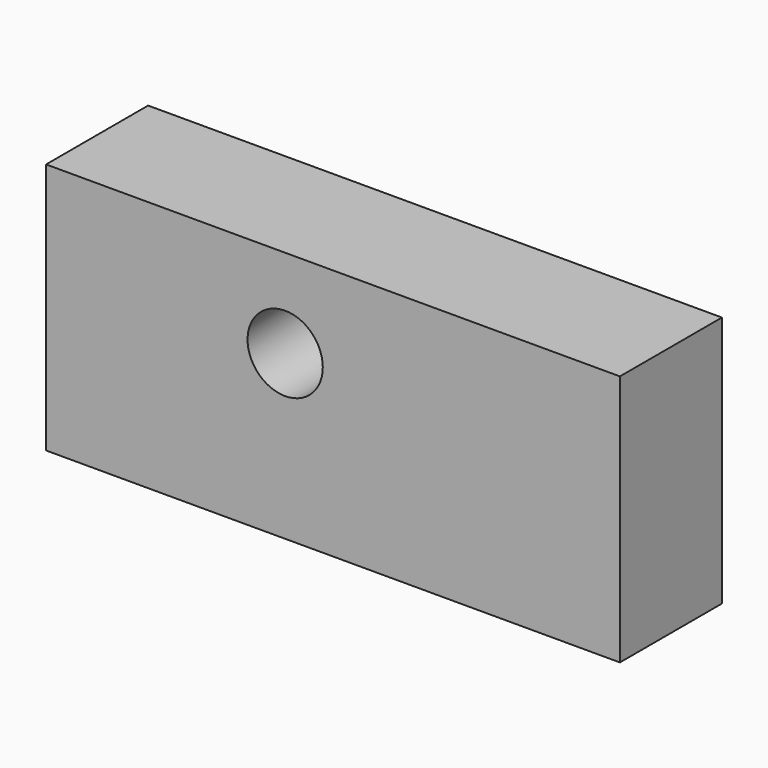
from build123d import *

# Parameters (mm, degrees)
F0_W     = 114.3
F0_H     = 25.4
F1_DEPTH = 50.165
F2_R     = 7.493
F3_DEPTH = 25.4
F4_R     = 2.5527
F5_DEPTH = 25.4
F7_DEPTH = 5.5626


with BuildPart() as f1:
    # F0 (on Top) → F1 (new body)
    with BuildSketch(Plane.XY):
        with Locations((57.15, 12.7)):
            Rectangle(F0_W, F0_H)
    extrude(amount=F1_DEPTH)

    # F2 (on face) → F3 (cut)
    with BuildSketch(Plane.XZ):
        with Locations((47.625, 32.512)):
            Circle(F2_R)
    extrude(amount=-F3_DEPTH, mode=Mode.SUBTRACT)

    # F4 (on face) → F5 (cut)
    with BuildSketch(Plane(origin=(0, 0, 0), x_dir=(1, 0, 0), z_dir=(0, 0, -1))):
        with Locations((19.05, -12.7)):
            Circle(F4_R)
        with Locations((95.25, -12.7)):
            Circle(F4_R)
    extrude(amount=-F5_DEPTH, mode=Mode.SUBTRACT)

    # F6 (on face) → F7 (cut)
    with BuildSketch(Plane(origin=(0, 0, 0), x_dir=(1, 0, 0), z_dir=(0, 0, -1))):
        Polygon((12.634195, -12.7), (15.842098, -18.25625), (22.257902, -18.25625), (25.465805, -12.7), (22.257902, -7.14375), (15.842098, -7.14375), align=None)
        Polygon((88.834195, -12.7), (92.042098, -18.25625), (98.457902, -18.25625), (101.665805, -12.7), (98.457902, -7.14375), (92.042098, -7.14375), align=None)
    extrude(amount=-F7_DEPTH, mode=Mode.SUBTRACT)


solid = f1.part
